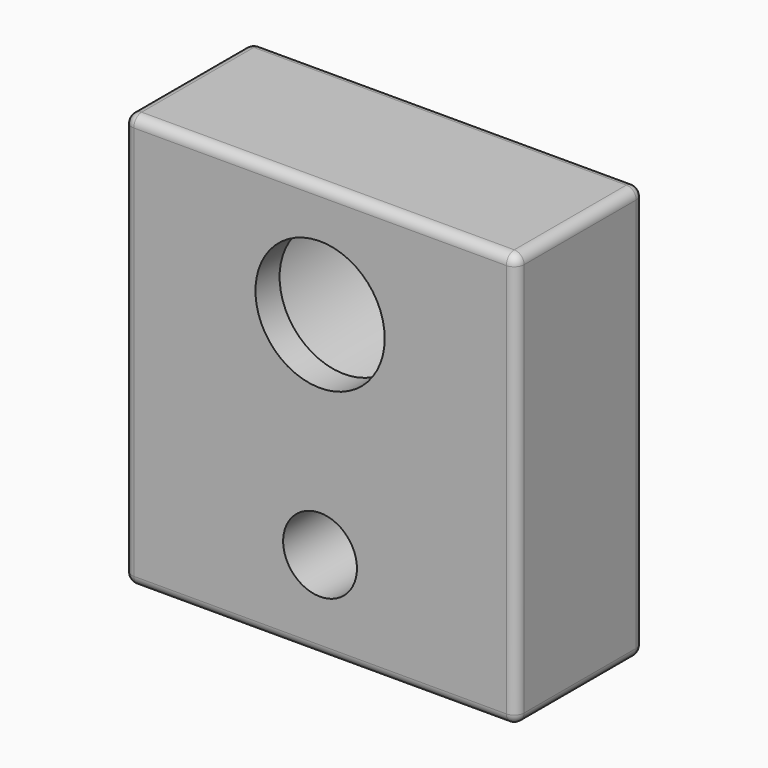
from build123d import *

# Parameters (mm, degrees)
F0_W     = 39.76
F0_H     = 42
F0_R     = 3.74
F0_R_2   = 6.55
F1_DEPTH = 8.1
F2_R     = 9.906
F2_R_2   = 6.55
F3_DEPTH = 13.14
F4_R     = 1


with BuildPart() as f1:
    # F0 (on Front) → F1 (new body, symmetric)
    with BuildSketch(Plane.XZ):
        with Locations((19.88, 21)):
            Rectangle(F0_W, F0_H)
        with Locations((19.88, 9.053554)):
            Circle(F0_R, mode=Mode.SUBTRACT)
        with Locations((19.88, 30.481216)):
            Circle(F0_R_2, mode=Mode.SUBTRACT)
    extrude(amount=F1_DEPTH, both=True)

    # F2 (on face) → F3 (cut)
    with BuildSketch(Plane(origin=(0, 8.1, 0), x_dir=(-1, 0, 0), z_dir=(0, 1, 0))):
        with Locations((-19.88, 30.481216)):
            Circle(F2_R)
        with Locations((-19.88, 30.481216)):
            Circle(F2_R_2, mode=Mode.SUBTRACT)
    extrude(amount=-F3_DEPTH, mode=Mode.SUBTRACT)

    # F4
    f4_edges = [f1.edges().sort_by_distance(p)[0] for p in [
        (19.88, -8.1, 42),
        (39.76, -8.1, 21),
        (19.88, -8.1, 0),
        (39.76, 0, 42),
        (0, 0, 42),
        (19.88, 8.1, 42),
        (39.76, 8.1, 21),
        (39.76, 0, 0),
        (0, -8.1, 21),
        (0, 8.1, 21),
        (19.88, 8.1, 0),
        (0, 0, 0),
    ]]
    fillet(f4_edges, radius=F4_R)


solid = f1.part
